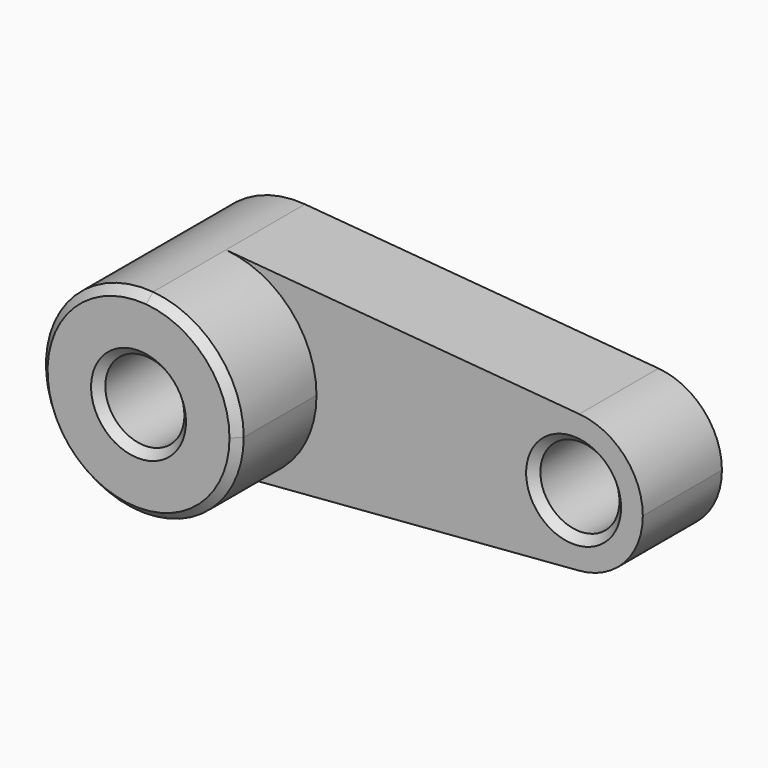
from build123d import *

# Parameters (mm, degrees)
F0_R     = 10
F1_DEPTH = 25
F2_DEPTH = 50
F3_SIZE  = 2


with BuildPart() as f1:
    # F0 (on Front) → F1 (new body)
    with BuildSketch(Plane.XZ):
        with BuildLine():
            ThreePointArc((5.994869, -24.27059), (19.683391, -15.413116), (25, 0))
            ThreePointArc((25, 0), (18.399502, 16.92508), (2.083333, 24.913043))
            ThreePointArc((2.083333, 24.913043), (-24.921312, -1.981973), (5.994869, -24.27059))
        make_face()
        Circle(F0_R, mode=Mode.SUBTRACT)
        with BuildLine():
            ThreePointArc((2.083333, 24.913043), (18.399502, 16.92508), (25, 0))
            ThreePointArc((25, 0), (19.683391, -15.413116), (5.994869, -24.27059))
            Line((5.994869, -24.27059), (40.323092, -21.526636))
            Line((40.323092, -21.526636), (91.394378, -17.44436))
            ThreePointArc((91.394378, -17.44436), (72.500029, 0.032084), (91.458333, 17.43913))
            Line((91.458333, 17.43913), (2.083333, 24.913043))
        make_face()
        with BuildLine():
            ThreePointArc((107.5, 0), (102.879651, 11.847556), (91.458333, 17.43913))
            ThreePointArc((91.458333, 17.43913), (72.500029, 0.032084), (91.394378, -17.44436))
            ThreePointArc((91.394378, -17.44436), (102.857908, -11.87115), (107.5, 0))
        make_face()
        with Locations((90, 0)):
            Circle(F0_R, mode=Mode.SUBTRACT)
    extrude(amount=F1_DEPTH)

    # F0 (on Front) → F2 (join)
    with BuildSketch(Plane.XZ):
        with BuildLine():
            ThreePointArc((5.994869, -24.27059), (19.683391, -15.413116), (25, 0))
            ThreePointArc((25, 0), (18.399502, 16.92508), (2.083333, 24.913043))
            ThreePointArc((2.083333, 24.913043), (-24.921312, -1.981973), (5.994869, -24.27059))
        make_face()
        Circle(F0_R, mode=Mode.SUBTRACT)
    extrude(amount=F2_DEPTH)

    # F3
    f3_edges = [f1.edges().sort_by_distance(p)[0] for p in [
        (-5.994869, -50, 24.27059),
        (-10, -50, 0),
        (80, -25, 0),
    ]]
    chamfer(f3_edges, length=F3_SIZE)


solid = f1.part
